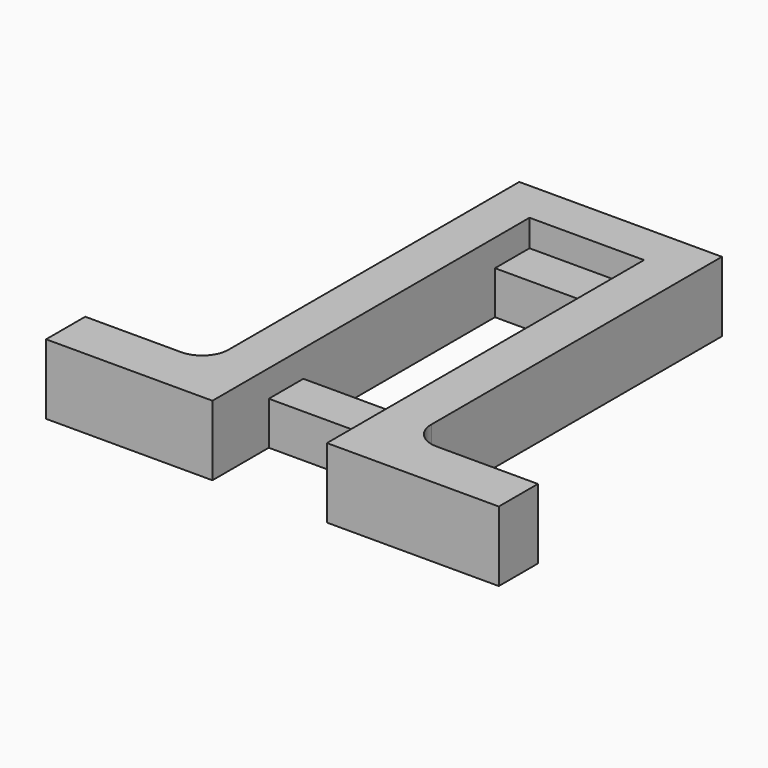
from build123d import *

# Parameters (mm, degrees)
F0_W     = 14.5028467007
F0_H     = 5.5518312344
F0_W_2   = 13.879578086
F1_DEPTH = 7.95
F2_W     = 13
F2_H     = 4.9
F3_DEPTH = 4.9
F4_W     = 13
F4_H     = 4.9
F5_DEPTH = 4.9
F6_R     = 3
F7_R     = 3


with BuildPart() as f1:
    # F0 (on Top) → F1 (new body)
    with BuildSketch(Plane.XY):
        Polygon((11.5, -2.4), (11.5, 2.4), (-11.5, 2.4), (-11.5, -2.4), (-6.5, -2.4), (6.5, -2.4), align=None)
        Polygon((11.5, -41.8343176826), (11.5, -2.4), (6.5, -2.4), (6.5, -47.386148917), (11.5, -47.386148917), align=None)
        Polygon((-6.5, -2.4), (-11.5, -2.4), (-11.5, -41.8343176826), (-11.5, -47.386148917), (-6.5, -47.386148917), align=None)
        with Locations((18.7514233503, -44.6102332998)):
            Rectangle(F0_W, F0_H)
        with Locations((-18.439789043, -44.6102332998)):
            Rectangle(F0_W_2, F0_H)
    extrude(amount=F1_DEPTH)

    # F4 (on Top) → F5 (join)
    with BuildSketch(Plane.XY):
        with Locations((0, -4.85)):
            Rectangle(F4_W, F4_H)
    extrude(amount=F5_DEPTH)

    # F6
    f6_edges = [f1.edges().sort_by_distance(p)[0] for p in [
        (-11.5, -41.834318, 3.975),
    ]]
    fillet(f6_edges, radius=F6_R)

    # F7
    f7_edges = [f1.edges().sort_by_distance(p)[0] for p in [
        (11.5, -41.834318, 3.975),
    ]]
    fillet(f7_edges, radius=F7_R)


with BuildPart() as f3:
    # F2 (on face) → F3 (new body)
    with BuildSketch(Plane(origin=(0, 0, 0), x_dir=(1, 0, 0), z_dir=(0, 0, -1))):
        with Locations((0, 36.936148917)):
            Rectangle(F2_W, F2_H)
    extrude(amount=-F3_DEPTH)


solid = Compound([f1.part, f3.part])
